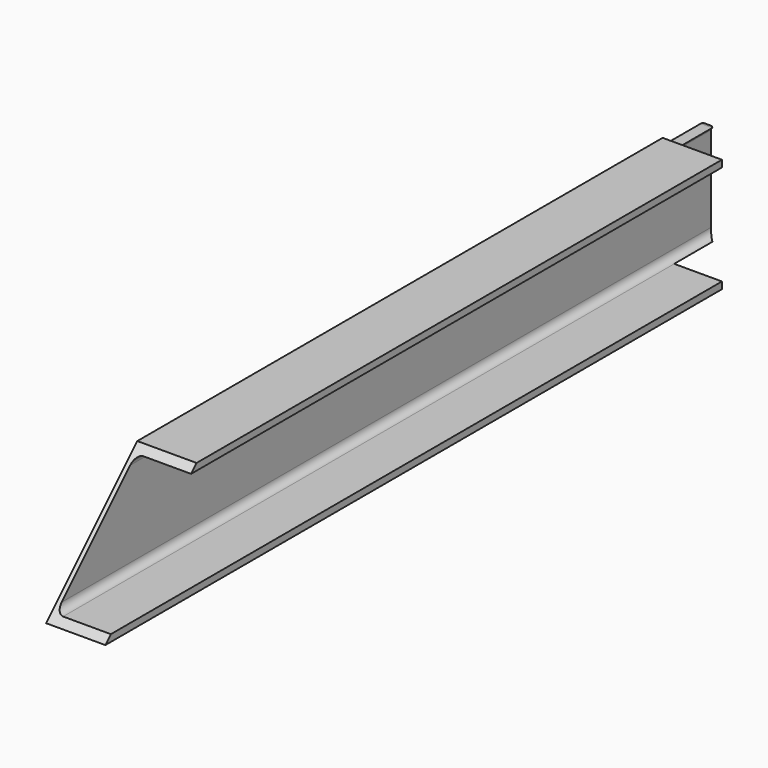
from build123d import *

# Parameters (mm, degrees)
F1_DEPTH = 910
F3_DEPTH = 65.001


with BuildPart() as f1:
    # F0 (on Front) → F1 (new body)
    with BuildSketch(Plane.XZ):
        with BuildLine():
            Line((-25.16784, 62.5), (-25.16784, -62.5))
            Line((-25.16784, -62.5), (39.83216, -62.5))
            Line((39.83216, -62.5), (39.83216, -55))
            Line((39.83216, -55), (-12.46784, -55))
            ThreePointArc((-12.46784, -55), (-18.124695, -52.656854), (-20.46784, -47))
            Line((-20.46784, -47), (-20.46784, 47))
            ThreePointArc((-20.46784, 47), (-18.124695, 52.656854), (-12.46784, 55))
            Line((-12.46784, 55), (39.83216, 55))
            Line((39.83216, 55), (39.83216, 62.5))
            Line((39.83216, 62.5), (-25.16784, 62.5))
        make_face()
    extrude(amount=F1_DEPTH)

    # F2 (on face) → F3 (cut, through all)
    with BuildSketch(Plane(origin=(-25.16784, 0, 0), x_dir=(0, -1, 0), z_dir=(-1, 0, 0))):
        with BuildLine():
            Line((0, 62.5), (0, -62.5))
            Line((0, -62.5), (65, -62.5))
            Line((65, -62.5), (65, -55))
            Line((65, -55), (12.7, -55))
            ThreePointArc((12.7, -55), (7.043146, -52.656854), (4.7, -47))
            Line((4.7, -47), (4.7, 47))
            ThreePointArc((4.7, 47), (7.043146, 52.656854), (12.7, 55))
            Line((12.7, 55), (65, 55))
            Line((65, 55), (65, 62.5))
            Line((65, 62.5), (0, 62.5))
        make_face()
        Polygon((785, 62.5), (910, -62.5), (910, 62.5), align=None)
    extrude(amount=-F3_DEPTH, mode=Mode.SUBTRACT)


solid = f1.part
